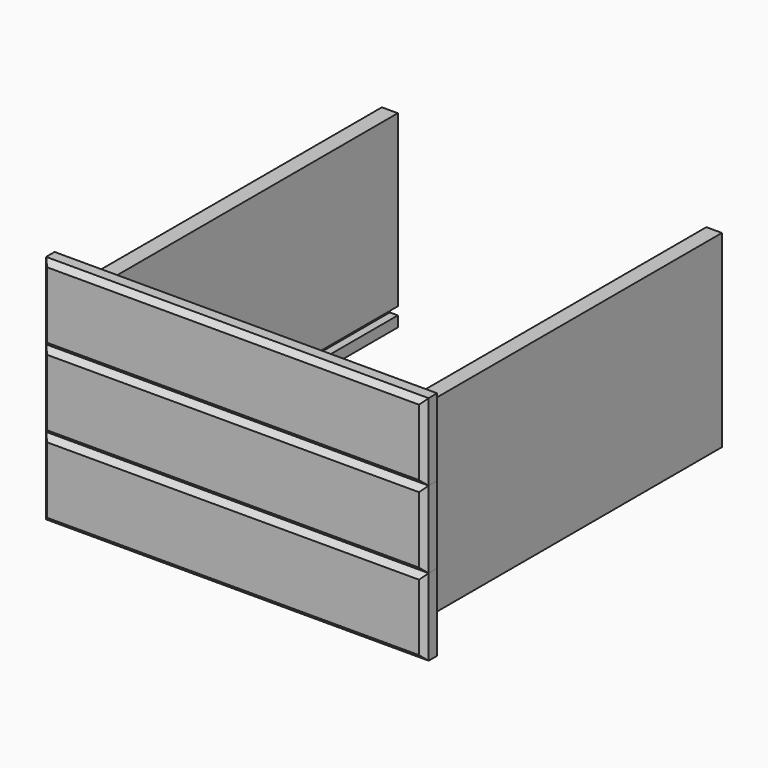
from build123d import *

# Parameters (mm, degrees)
F0_W      = 457.2
F0_H      = 92.075
F1_DEPTH  = 19.05
F2_W      = 457.2
F2_H      = 92.075
F3_DEPTH  = 19.05
F4_W      = 457.2
F4_H      = 92.075
F5_DEPTH  = 19.05
F6_SIZE   = 6.35
F7_SIZE   = 6.35
F8_SIZE   = 6.35
F10_DEPTH = 457.2


with BuildPart() as f1:
    # F0 (on Front) → F1 (new body)
    with BuildSketch(Plane.XZ):
        with Locations((228.6, 46.0375)):
            Rectangle(F0_W, F0_H)
        with Locations((228.6, 46.0375)):
            Rectangle(F0_W, F0_H)
    extrude(amount=F1_DEPTH)

    # F6
    f6_edges = [f1.edges().sort_by_distance(p)[0] for p in [
        (228.6, -19.05, 92.075),
        (228.6, -19.05, 0),
        (457.2, -19.05, 46.0375),
        (0, -19.05, 46.0375),
    ]]
    chamfer(f6_edges, length=F6_SIZE)


with BuildPart() as f3:
    # F2 (on face) → F3 (new body)
    with BuildSketch(Plane.XZ.offset(19.05)):
        with Locations((228.6, 138.1125)):
            Rectangle(F2_W, F2_H)
    extrude(amount=-F3_DEPTH)

    # F7
    f7_edges = [f3.edges().sort_by_distance(p)[0] for p in [
        (228.6, -19.05, 92.075),
        (228.6, -19.05, 184.15),
        (457.2, -19.05, 138.1125),
        (0, -19.05, 138.1125),
    ]]
    chamfer(f7_edges, length=F7_SIZE)


with BuildPart() as f5:
    # F4 (on face) → F5 (new body)
    with BuildSketch(Plane.XZ.offset(19.05)):
        with Locations((228.6, 230.1875)):
            Rectangle(F4_W, F4_H)
    extrude(amount=-F5_DEPTH)

    # F8
    f8_edges = [f5.edges().sort_by_distance(p)[0] for p in [
        (228.6, -19.05, 184.15),
        (0, -19.05, 230.1875),
        (228.6, -19.05, 276.225),
        (457.2, -19.05, 230.1875),
    ]]
    chamfer(f8_edges, length=F8_SIZE)


with BuildPart() as f10:
    # F9 (on face) → F10 (new body)
    with BuildSketch(Plane(origin=(0, 0, 0), x_dir=(-1, 0, 0), z_dir=(0, 1, 0))):
        Polygon((-431.8, 250.825), (-431.8, 25.4), (-413.185925, 25.4), (-413.185925, 38.1), (-422.710925, 38.1), (-422.710925, 47.625), (-413.185925, 47.625), (-413.185925, 250.825), align=None)
        Polygon((-44.45, 25.4), (-25.4, 25.4), (-25.4, 250.825), (-44.45, 250.825), (-44.45, 47.625), (-34.925, 47.625), (-34.925, 38.1), (-44.45, 38.1), align=None)
    extrude(amount=F10_DEPTH)


solid = Compound([f1.part, f3.part, f5.part, f10.part])
